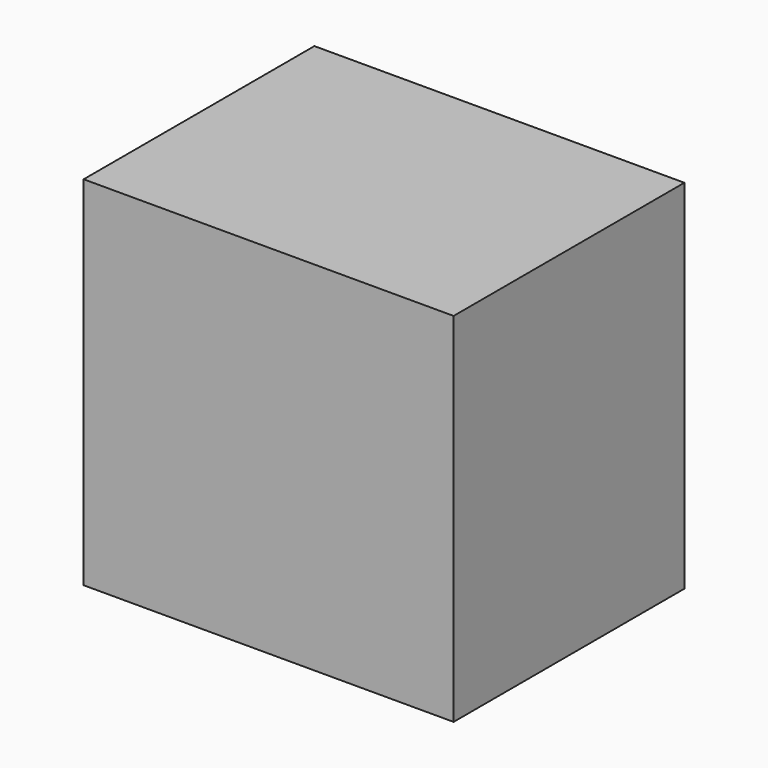
from build123d import *

# Parameters (mm, degrees)
F0_R     = 12
F0_W     = 6
F0_H     = 6
F1_DEPTH = 2
F2_DEPTH = 57
F3_W     = 55
F3_H     = 2
F4_DEPTH = 46
F5_DEPTH = 8
F6_START = 49
F6_DEPTH = 6
F8_START = -28.2
F7_R     = 1.25
F8_DEPTH = 30.8
F9_R     = 3


with BuildPart() as f1:
    # F0 (on Top) → F1 (new body)
    with BuildSketch(Plane.XY):
        Polygon((-27.6188791469, 46), (-29.6188791469, 46), (-29.6188791469, 0), (29.3811208531, 0), (29.3811208531, 46), (27.3811208531, 46), (27.3811208531, 40), (27.3811208531, 2), (-27.6188791469, 2), (-27.6188791469, 40), align=None)
        Polygon((21.3811208531, 46), (-21.6188791469, 46), (-21.6188791469, 40), (-27.6188791469, 40), (-27.6188791469, 2), (27.3811208531, 2), (27.3811208531, 40), (21.3811208531, 40), align=None)
        with Locations((0.0188835789, 24)):
            Circle(F0_R, mode=Mode.SUBTRACT)
        with Locations((-24.6188791469, 43)):
            Rectangle(F0_W, F0_H)
        with Locations((24.3811208531, 43)):
            Rectangle(F0_W, F0_H)
    extrude(amount=F1_DEPTH)

    # F0 (on Top) → F2 (join)
    with BuildSketch(Plane.XY):
        Polygon((-27.6188791469, 46), (-29.6188791469, 46), (-29.6188791469, 0), (29.3811208531, 0), (29.3811208531, 46), (27.3811208531, 46), (27.3811208531, 40), (27.3811208531, 2), (-27.6188791469, 2), (-27.6188791469, 40), align=None)
    extrude(amount=F2_DEPTH)

    # F3 (on Front) → F4 (join)
    with BuildSketch(Plane.XZ):
        with Locations((-0.1188791469, 56)):
            Rectangle(F3_W, F3_H)
    extrude(amount=-F4_DEPTH)

    # F0 (on Top) → F5 (join)
    with BuildSketch(Plane.XY):
        with Locations((24.3811208531, 43)):
            Rectangle(F0_W, F0_H)
        with Locations((-24.6188791469, 43)):
            Rectangle(F0_W, F0_H)
    extrude(amount=F5_DEPTH)

    # F0 (on Top) → F6 (join)
    with BuildSketch(Plane.XY.offset(F6_START)):
        with Locations((24.3811208531, 43)):
            Rectangle(F0_W, F0_H)
        with Locations((-24.6188791469, 43)):
            Rectangle(F0_W, F0_H)
    extrude(amount=F6_DEPTH)

    # F7 (on Front) → F8 (cut)
    with BuildSketch(Plane.XZ.offset(F8_START)):
        with Locations((25.3331962228, 53)):
            Circle(F7_R)
        with Locations((-25.6668037772, 53)):
            Circle(F7_R)
        with Locations((-25.6668037772, 4)):
            Circle(F7_R)
        with Locations((25.3331962228, 4)):
            Circle(F7_R)
    extrude(amount=-F8_DEPTH, mode=Mode.SUBTRACT)

    # F9
    f9_edges = [f1.edges().sort_by_distance(p)[0] for p in [
        (21.381121, 43, 49),
        (-21.618879, 43, 49),
        (-21.618879, 43, 8),
        (21.381121, 43, 8),
    ]]
    fillet(f9_edges, radius=F9_R)


solid = f1.part
